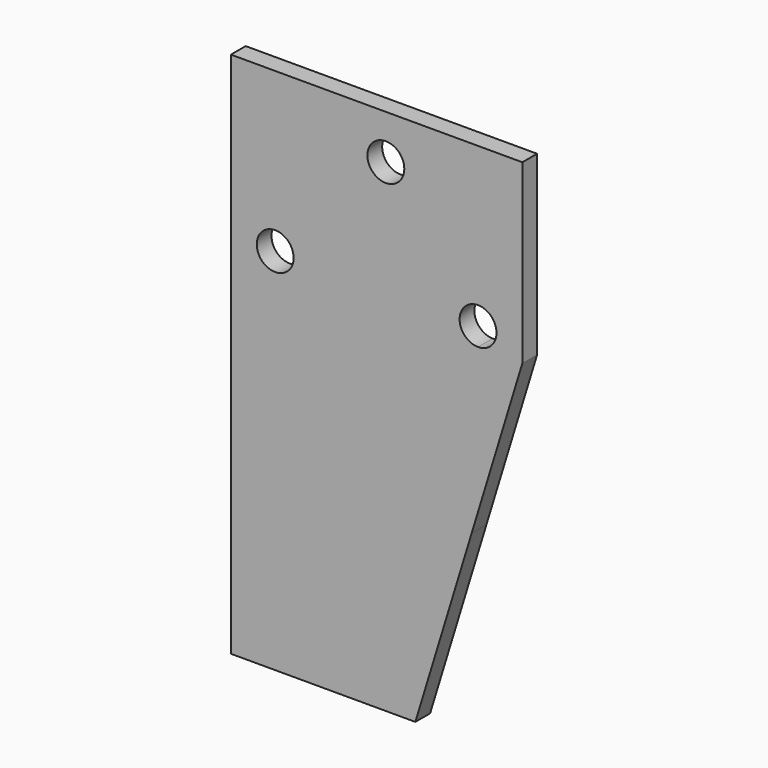
from build123d import *

# Parameters (mm, degrees)
F0_R     = 6.35
F0_W     = 41.91
F0_H     = 63.5
F0_W_2   = 21.59
F1_DEPTH = 6.35


with BuildPart() as f1:
    # F0 (on Front) → F1 (new body)
    with BuildSketch(Plane.XZ):
        Polygon((-31.75, 31.75), (10.16, 31.75), (29.544211, 31.75), (46.99, 88.9), (46.99, 149.86), (-53.34, 149.86), (-53.34, 95.25), align=None)
        with Locations((-38.1, 95.25)):
            Circle(F0_R, mode=Mode.SUBTRACT)
        with BuildLine():
            ThreePointArc((38.1, 95.25), (36.240128, 90.759872), (31.75, 88.9))
            ThreePointArc((31.75, 88.9), (27.259872, 99.740128), (38.1, 95.25))
        make_face(mode=Mode.SUBTRACT)
        with Locations((0, 134.62)):
            Circle(F0_R, mode=Mode.SUBTRACT)
        Polygon((29.544211, 31.75), (10.16, 31.75), (10.16, -31.75), align=None)
        with Locations((-10.795, 0)):
            Rectangle(F0_W, F0_H)
        Polygon((-53.34, 31.75), (-31.75, 31.75), (-53.34, 95.25), align=None)
        with Locations((-42.545, 0)):
            Rectangle(F0_W_2, F0_H)
    extrude(amount=F1_DEPTH)


solid = f1.part
